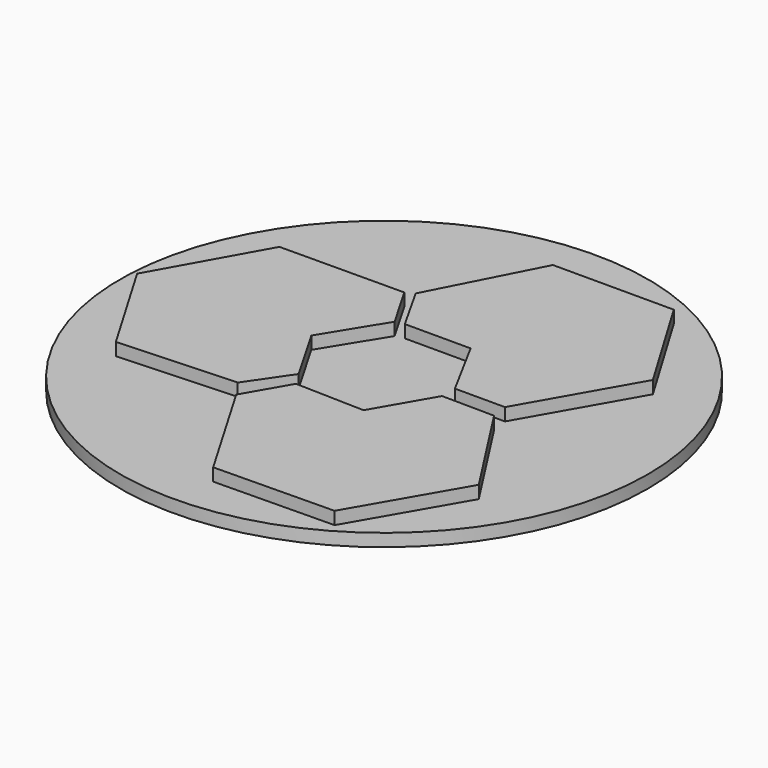
from build123d import *

# Parameters (mm, degrees)
F1_DEPTH = 5.08
F2_R     = 53.101918
F3_DEPTH = 2.54


with BuildPart() as f1:
    # F0 (on Top) → F1 (new body)
    with BuildSketch(Plane.XY):
        Polygon((24.319585, 42.45135), (0, 42.45135), (-10.793718, 21.439578), (-5.613214, 12.229794), (7.625851, 12.229794), (14.246386, 0), (24.319585, 0), (36.695231, 21.729333), align=None)
        Polygon((-49.167572, -0.64082), (-37.270848, -20.865917), (-13.677261, -19.707665), (-8.028538, -11.452607), (-14.64807, 0.012759), (-7.367026, 11.861208), (-12.403625, 20.584855), (-37.409603, 20.437812), align=None)
        Polygon((25.452622, -44.270425), (37.612414, -23.209046), (24.812545, -3.355527), (14.246386, -3.237083), (7.626854, -14.702449), (-6.274726, -14.321104), (-11.311326, -23.04475), (1.319006, -44.627041), align=None)
    extrude(amount=F1_DEPTH)


with BuildPart() as f3:
    # F2 (on Top) → F3 (new body)
    with BuildSketch(Plane.XY):
        Circle(F2_R)
    extrude(amount=F3_DEPTH)


solid = Compound([f1.part, f3.part])
